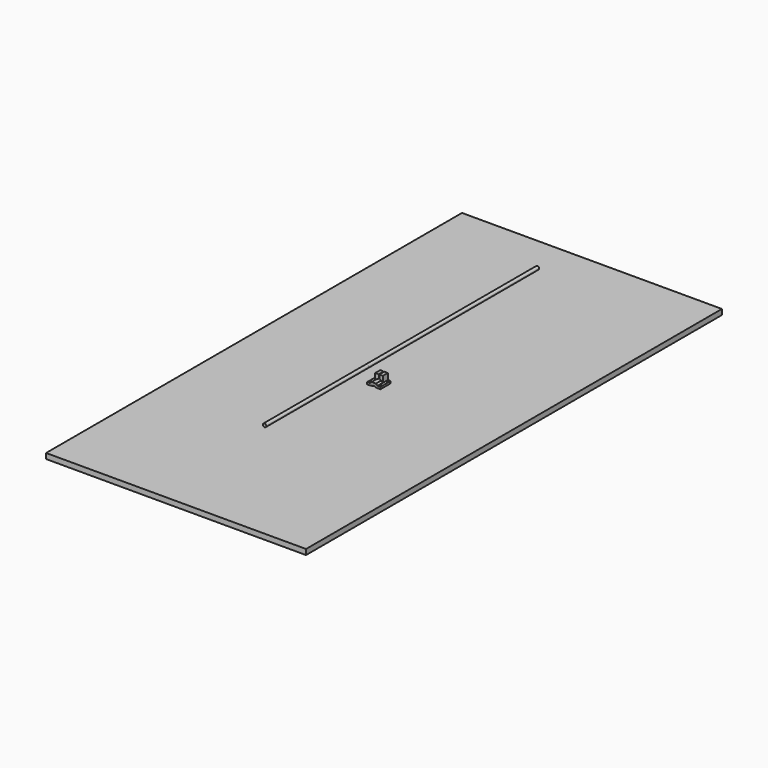
from build123d import *

# Parameters (mm, degrees)
F1_DEPTH  = 14.5
F2_R      = 2.7
F3_DEPTH  = 6
F4_R      = 4
F5_DEPTH  = 300
F6_DEPTH  = 500
F7_R      = 7.5
F7_R_2    = 4.05
F8_DEPTH  = 30
F9_R      = 1.65
F10_DEPTH = 18
F11_DEPTH = 1
F12_R     = 7.5
F12_R_2   = 4.05
F13_DEPTH = 1
F14_W     = 609.6
F14_H     = 1219.2
F15_DEPTH = 12.6


with BuildPart() as f1:
    # F0 (on Front) → F1 (new body)
    with BuildSketch(Plane.XZ):
        with BuildLine():
            Line((-20.5, 6), (-20.5, 0))
            Line((-20.5, 0), (0, 0))
            Line((0, 0), (20.5, 0))
            Line((20.5, 0), (20.5, 6))
            Line((20.5, 6), (8.95, 6))
            Line((8.95, 6), (8.95, 32))
            Line((8.95, 32), (0.65, 32))
            Line((0.65, 32), (0.65, 23.0481477246))
            ThreePointArc((0.65, 23.0481477246), (0, 14.9), (-0.65, 23.0481477246))
            Line((-0.65, 23.0481477246), (-0.65, 32))
            Line((-0.65, 32), (-8.95, 32))
            Line((-8.95, 32), (-8.95, 6))
            Line((-8.95, 6), (-20.5, 6))
        make_face()
    extrude(amount=F1_DEPTH)

    # F2 (on face) → F3 (cut, through all)
    with BuildSketch(Plane(origin=(0, 0, 0), x_dir=(1, 0, 0), z_dir=(0, 0, -1))):
        with Locations((-16, 7.25)):
            Circle(F2_R)
        with Locations((16, 7.25)):
            Circle(F2_R)
    extrude(amount=-F3_DEPTH, mode=Mode.SUBTRACT)


with BuildPart() as f5:
    # F4 (on Front) → F5 (new body)
    with BuildSketch(Plane.XZ):
        with Locations((-40, 30)):
            Circle(F4_R)
    extrude(amount=F5_DEPTH)


with BuildPart() as f6:
    # F4 (on Front) → F6 (new body)
    with BuildSketch(Plane.XZ):
        with Locations((-40, 30)):
            Circle(F4_R)
    extrude(amount=-F6_DEPTH)


with BuildPart() as f8:
    # F7 (on Front) → F8 (new body)
    with BuildSketch(Plane.XZ):
        Polygon((-6.5, 0), (0, 0), (6.5, 0), (6.5, -0.6), (17, -0.6), (17, 6), (15.5, 7.4), (15.5, 17.4), (8.5, 17.4), (5, 21), (0, 21), (-5, 21), (-8.5, 17.4), (-15.5, 17.4), (-15.5, 7.4), (-17, 6), (-17, -0.6), (-6.5, -0.6), align=None)
        with Locations((0, 10)):
            Circle(F7_R, mode=Mode.SUBTRACT)
        with Locations((0, 10)):
            Circle(F7_R)
        with Locations((0, 10)):
            Circle(F7_R_2, mode=Mode.SUBTRACT)
    extrude(amount=F8_DEPTH)

    # F9 (on face) → F10 (cut, through all)
    with BuildSketch(Plane(origin=(0, 0, -0.6), x_dir=(1, 0, 0), z_dir=(0, 0, -1))):
        with Locations((-12.3, 24.2)):
            Circle(F9_R)
        with Locations((-12.3, 5.8)):
            Circle(F9_R)
        with Locations((12.3, 5.8)):
            Circle(F9_R)
        with Locations((12.3, 24.2)):
            Circle(F9_R)
    extrude(amount=-F10_DEPTH, mode=Mode.SUBTRACT)

    # F7 (on Front) → F11 (cut)
    with BuildSketch(Plane.XZ):
        with Locations((0, 10)):
            Circle(F7_R)
        with Locations((0, 10)):
            Circle(F7_R_2, mode=Mode.SUBTRACT)
    extrude(amount=F11_DEPTH, mode=Mode.SUBTRACT)

    # F12 (on face) → F13 (cut)
    with BuildSketch(Plane.XZ.offset(30)):
        with Locations((0, 10)):
            Circle(F12_R)
        with Locations((0, 10)):
            Circle(F12_R_2, mode=Mode.SUBTRACT)
    extrude(amount=-F13_DEPTH, mode=Mode.SUBTRACT)


with BuildPart() as f15:
    # F14 (on Top) → F15 (new body)
    with BuildSketch(Plane.XY):
        Rectangle(F14_W, F14_H)
    extrude(amount=F15_DEPTH)


solid = Compound([f1.part, f5.part, f6.part, f8.part, f15.part])
